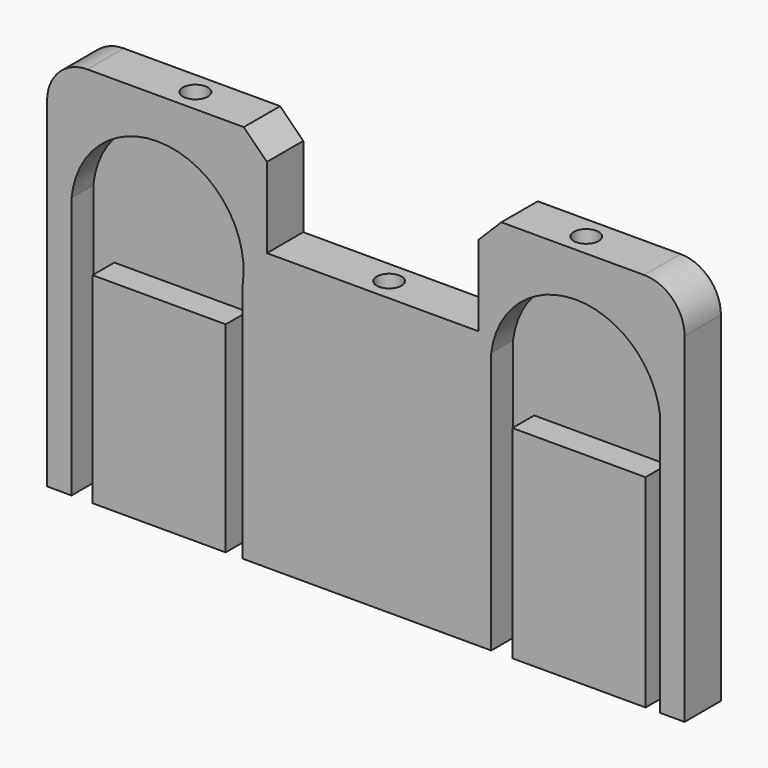
from build123d import *

# Parameters (mm, degrees)
F1_DEPTH  = 5
F4_D      = 5.5
F4_DEPTH  = 10
F4_TIP    = 1.6523667023
F5_D      = 5.5
F5_DEPTH  = 10
F5_TIP    = 1.6523667023
F7_D      = 5.5
F7_DEPTH  = 10
F7_TIP    = 1.6523667023
F9_DEPTH  = 6
F11_DEPTH = 6
F12_SIZE  = 5.08
F13_SIZE  = 5.08


with BuildPart() as f1:
    # F0 (on Front) → F1 (new body, symmetric)
    with BuildSketch(Plane.XZ):
        with BuildLine():
            Line((-71.2879747152, 42.1321982205), (-71.2879747152, 28.2593462616))
            Line((-71.2879747152, 28.2593462616), (-22.9098405689, 28.2593462616))
            Line((-22.9098405689, 28.2593462616), (-22.9098405689, 51.0221982205))
            Line((-22.9098405689, 51.0221982205), (-62.3979747152, 51.0221982205))
            ThreePointArc((-62.3979747152, 51.0221982205), (-68.684154, 48.4183775052), (-71.2879747152, 42.1321982205))
        make_face()
        Polygon((-22.9098405689, 28.2593462616), (-71.2879747152, 28.2593462616), (-71.2879747152, -32.6785035431), (69.0129896845, -32.6785035431), (69.0129896845, 28.2593462616), (23.607602343, 28.2593462616), align=None)
        with BuildLine():
            Line((23.607602343, 51.0221982205), (23.607602343, 28.2593462616))
            Line((23.607602343, 28.2593462616), (69.0129896845, 28.2593462616))
            Line((69.0129896845, 28.2593462616), (69.0129896845, 42.1321982205))
            ThreePointArc((69.0129896845, 42.1321982205), (66.4091689693, 48.4183775052), (60.1229896845, 51.0221982205))
            Line((60.1229896845, 51.0221982205), (23.607602343, 51.0221982205))
        make_face()
    extrude(amount=F1_DEPTH, both=True)

    # F4
    with Locations(Plane.XY.offset(51.0221982205)):
        with Locations((-42.6539076421, 0)):
            Hole(F4_D / 2, depth=F4_DEPTH)
            with Locations((0, 0, -(F4_DEPTH + F4_TIP / 2))):  # 118° drill point
                Cone(0, F4_D / 2, F4_TIP, mode=Mode.SUBTRACT)

    # F5
    with Locations(Plane.XY.offset(51.0221982205)):
        with Locations((43.3775149286, 0)):
            Hole(F5_D / 2, depth=F5_DEPTH)
            with Locations((0, 0, -(F5_DEPTH + F5_TIP / 2))):  # 118° drill point
                Cone(0, F5_D / 2, F5_TIP, mode=Mode.SUBTRACT)

    # F7
    with Locations(Plane.XY.offset(28.2593462616)):
        with Locations((0, 0)):
            Hole(F7_D / 2, depth=F7_DEPTH)
            with Locations((0, 0, -(F7_DEPTH + F7_TIP / 2))):  # 118° drill point
                Cone(0, F7_D / 2, F7_TIP, mode=Mode.SUBTRACT)

    # F8 (on face) → F9 (cut)
    with BuildSketch(Plane.XZ.offset(5)):
        with BuildLine():
            Line((-28.2593462616, 25.0004206035), (-28.2593462616, 20.1726239209))
            ThreePointArc((-28.2593462616, 20.1726239209), (-44.6016580305, 41.9345797557), (-65.9063084503, 25.0004206035))
            Line((-65.9063084503, 25.0004206035), (-28.2593462616, 25.0004206035))
        make_face()
        Polygon((-28.2593462616, -32.6785035431), (-28.2593462616, 20.1726239209), (-28.2593462616, 25.0004206035), (-65.9063084503, 25.0004206035), (-65.9063084503, 21.2075540823), (-65.9063084503, -32.6785035431), (-61.2867288291, -32.6785035431), (-61.2867288291, 11.5130664781), (-31.9807417691, 11.5130664781), (-31.9807417691, -32.6785035431), align=None)
    extrude(amount=-F9_DEPTH, mode=Mode.SUBTRACT)

    # F10 (on face) → F11 (cut)
    with BuildSketch(Plane.XZ.offset(5)):
        with BuildLine():
            Line((26.4657004472, 25.0048964569), (63.6281896845, 25.0048964569))
            ThreePointArc((63.6281896845, 25.0048964569), (45.0469450659, 41.3656967057), (26.4657004472, 25.0048964569))
        make_face()
        Polygon((63.6281896845, -32.6785035431), (63.6281896845, 25.0048964569), (26.4657004472, 25.0048964569), (26.4657004472, 20.2626549029), (26.4657004472, -32.6785035431), (31.1232465006, -32.6785035431), (31.1232465006, 11.9440579109), (60.4292335607, 11.9440579109), (60.4292335607, -32.6785035431), align=None)
    extrude(amount=-F11_DEPTH, mode=Mode.SUBTRACT)

    # F12
    f12_edges = [f1.edges().sort_by_distance(p)[0] for p in [
        (-22.909841, 0, 51.022198),
    ]]
    chamfer(f12_edges, length=F12_SIZE)

    # F13
    f13_edges = [f1.edges().sort_by_distance(p)[0] for p in [
        (23.607602, 0, 51.022198),
    ]]
    chamfer(f13_edges, length=F13_SIZE)


solid = f1.part
